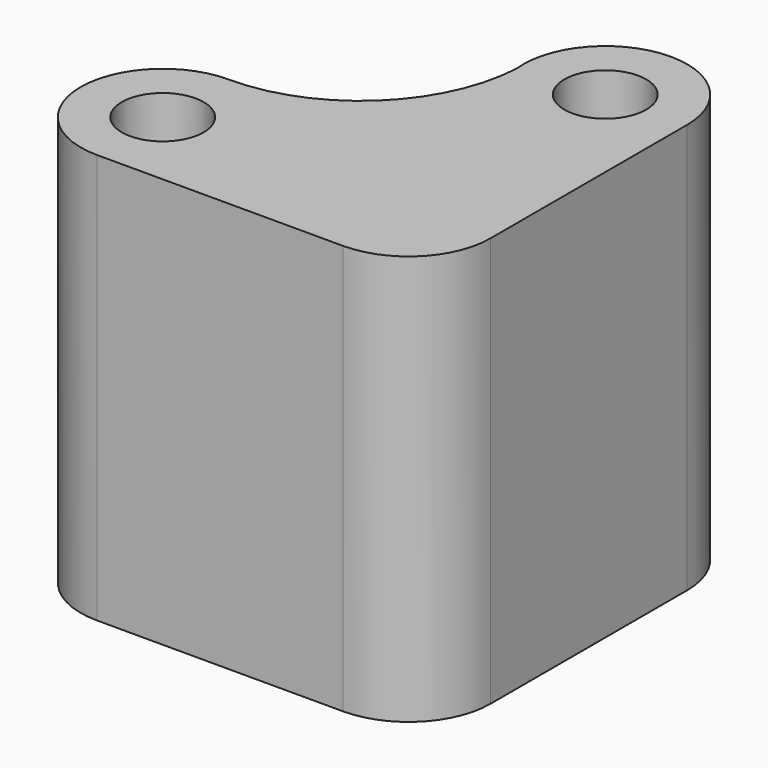
from build123d import *

# Parameters (mm, degrees)
F0_R     = 2.5
F1_DEPTH = 25


with BuildPart() as f1:
    # F0 (on Top) → F1 (new body)
    with BuildSketch(Plane.XY):
        with BuildLine():
            Line((5, 0), (5, 15))
            ThreePointArc((5, 15), (-0.277233, 19.992308), (-4.969257, 14.446387))
            ThreePointArc((-4.969257, 14.446387), (-8.092514, 7.725244), (-14.984642, 4.999976))
            ThreePointArc((-14.984642, 4.999976), (-19.999994, 0.007679), (-15, -5))
            Line((-15, -5), (0, -5))
            ThreePointArc((0, -5), (3.535534, -3.535534), (5, 0))
        make_face()
        with Locations((-15, 0)):
            Circle(F0_R, mode=Mode.SUBTRACT)
        with Locations((0, 15)):
            Circle(F0_R, mode=Mode.SUBTRACT)
    extrude(amount=F1_DEPTH)


solid = f1.part
